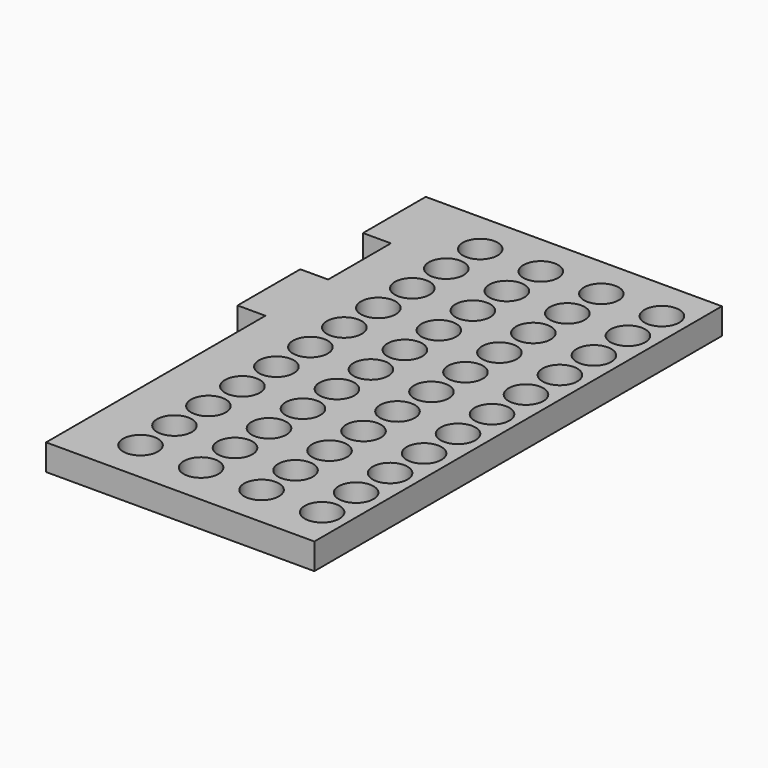
from build123d import *

# Parameters (mm, degrees)
F0_R     = 2
F1_DEPTH = 1.5


with BuildPart() as f1:
    # F0 (on Top) → F1 (new body, symmetric)
    with BuildSketch(Plane.XY):
        Polygon((3, 29.24), (-27.8, 29.24), (-31, 29.24), (-31, 20.24), (-27.8, 20.24), (-27.8, 11.24), (-31, 11.24), (-31, 2.237353), (-27.8, 2.237353), (-27.8, -19.5), (-27.8, -29.235), (3, -29.24), (3, -19.5), (3, 19.5), align=None)
        with Locations((-20.85, -24.375)):
            Circle(F0_R, mode=Mode.SUBTRACT)
        with Locations((-20.85, -19.5)):
            Circle(F0_R, mode=Mode.SUBTRACT)
        with Locations((-20.85, -14.625)):
            Circle(F0_R, mode=Mode.SUBTRACT)
        with Locations((-20.85, -9.75)):
            Circle(F0_R, mode=Mode.SUBTRACT)
        with Locations((-20.85, -4.875)):
            Circle(F0_R, mode=Mode.SUBTRACT)
        with Locations((-20.85, 0)):
            Circle(F0_R, mode=Mode.SUBTRACT)
        with Locations((-13.9, -24.375)):
            Circle(F0_R, mode=Mode.SUBTRACT)
        with Locations((-6.95, -24.375)):
            Circle(F0_R, mode=Mode.SUBTRACT)
        with Locations((-13.9, -19.5)):
            Circle(F0_R, mode=Mode.SUBTRACT)
        with Locations((-13.9, -14.625)):
            Circle(F0_R, mode=Mode.SUBTRACT)
        with Locations((-6.95, -19.5)):
            Circle(F0_R, mode=Mode.SUBTRACT)
        with Locations((-6.95, -14.625)):
            Circle(F0_R, mode=Mode.SUBTRACT)
        with Locations((0, -24.375)):
            Circle(F0_R, mode=Mode.SUBTRACT)
        with Locations((0, -19.5)):
            Circle(F0_R, mode=Mode.SUBTRACT)
        with Locations((0, -14.625)):
            Circle(F0_R, mode=Mode.SUBTRACT)
        with Locations((-13.9, -9.75)):
            Circle(F0_R, mode=Mode.SUBTRACT)
        with Locations((-6.95, -9.75)):
            Circle(F0_R, mode=Mode.SUBTRACT)
        with Locations((-13.9, -4.875)):
            Circle(F0_R, mode=Mode.SUBTRACT)
        with Locations((-13.9, 0)):
            Circle(F0_R, mode=Mode.SUBTRACT)
        with Locations((-6.95, -4.875)):
            Circle(F0_R, mode=Mode.SUBTRACT)
        with Locations((-6.95, 0)):
            Circle(F0_R, mode=Mode.SUBTRACT)
        with Locations((0, -9.75)):
            Circle(F0_R, mode=Mode.SUBTRACT)
        with Locations((0, -4.875)):
            Circle(F0_R, mode=Mode.SUBTRACT)
        Circle(F0_R, mode=Mode.SUBTRACT)
        with Locations((-20.85, 4.875)):
            Circle(F0_R, mode=Mode.SUBTRACT)
        with Locations((-20.85, 9.75)):
            Circle(F0_R, mode=Mode.SUBTRACT)
        with Locations((-20.85, 14.625)):
            Circle(F0_R, mode=Mode.SUBTRACT)
        with Locations((-20.85, 19.5)):
            Circle(F0_R, mode=Mode.SUBTRACT)
        with Locations((-20.85, 24.375)):
            Circle(F0_R, mode=Mode.SUBTRACT)
        with Locations((-13.9, 4.875)):
            Circle(F0_R, mode=Mode.SUBTRACT)
        with Locations((-6.95, 4.875)):
            Circle(F0_R, mode=Mode.SUBTRACT)
        with Locations((-13.9, 9.75)):
            Circle(F0_R, mode=Mode.SUBTRACT)
        with Locations((-6.95, 9.75)):
            Circle(F0_R, mode=Mode.SUBTRACT)
        with Locations((0, 4.875)):
            Circle(F0_R, mode=Mode.SUBTRACT)
        with Locations((0, 9.75)):
            Circle(F0_R, mode=Mode.SUBTRACT)
        with Locations((-13.9, 14.625)):
            Circle(F0_R, mode=Mode.SUBTRACT)
        with Locations((-13.9, 19.5)):
            Circle(F0_R, mode=Mode.SUBTRACT)
        with Locations((-6.95, 14.625)):
            Circle(F0_R, mode=Mode.SUBTRACT)
        with Locations((-6.95, 19.5)):
            Circle(F0_R, mode=Mode.SUBTRACT)
        with Locations((-13.9, 24.375)):
            Circle(F0_R, mode=Mode.SUBTRACT)
        with Locations((-6.95, 24.375)):
            Circle(F0_R, mode=Mode.SUBTRACT)
        with Locations((0, 14.625)):
            Circle(F0_R, mode=Mode.SUBTRACT)
        with Locations((0, 19.5)):
            Circle(F0_R, mode=Mode.SUBTRACT)
        with Locations((0, 24.375)):
            Circle(F0_R, mode=Mode.SUBTRACT)
    extrude(amount=F1_DEPTH, both=True)


solid = f1.part
